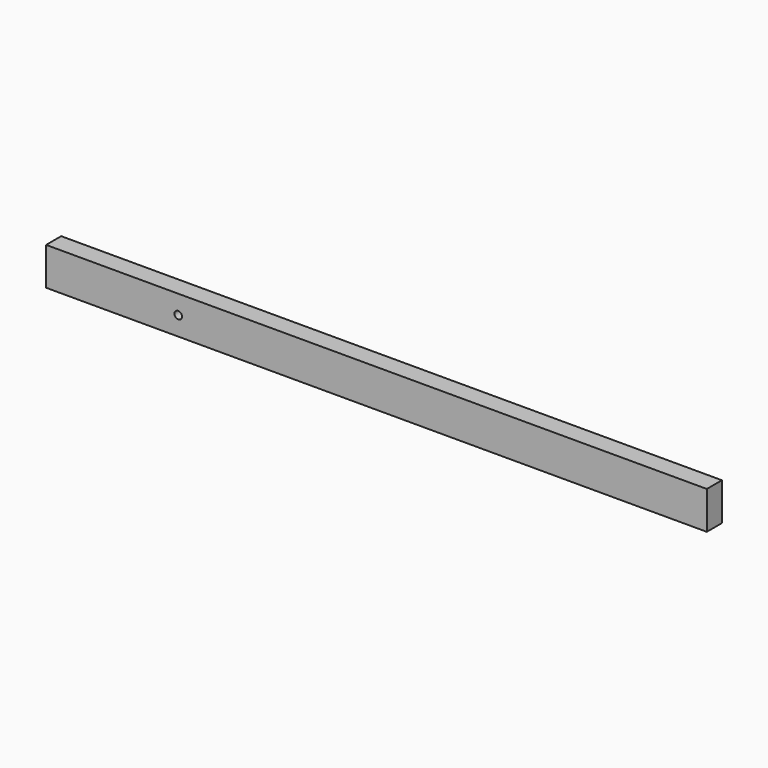
from build123d import *

# Parameters (mm, degrees)
F1_DEPTH = 40
F2_R     = 4
F3_DEPTH = 25


with BuildPart() as f1:
    # F0 (on Top) → F1 (new body)
    with BuildSketch(Plane.XY):
        Polygon((700, -10), (700, 10), (0.3576, 10), (0, 10), (0, -10), align=None)
    extrude(amount=F1_DEPTH)

    # F2 (on face) → F3 (cut)
    with BuildSketch(Plane.XZ.offset(10)):
        with Locations((140, 20)):
            Circle(F2_R)
    extrude(amount=-F3_DEPTH, mode=Mode.SUBTRACT)


solid = f1.part
